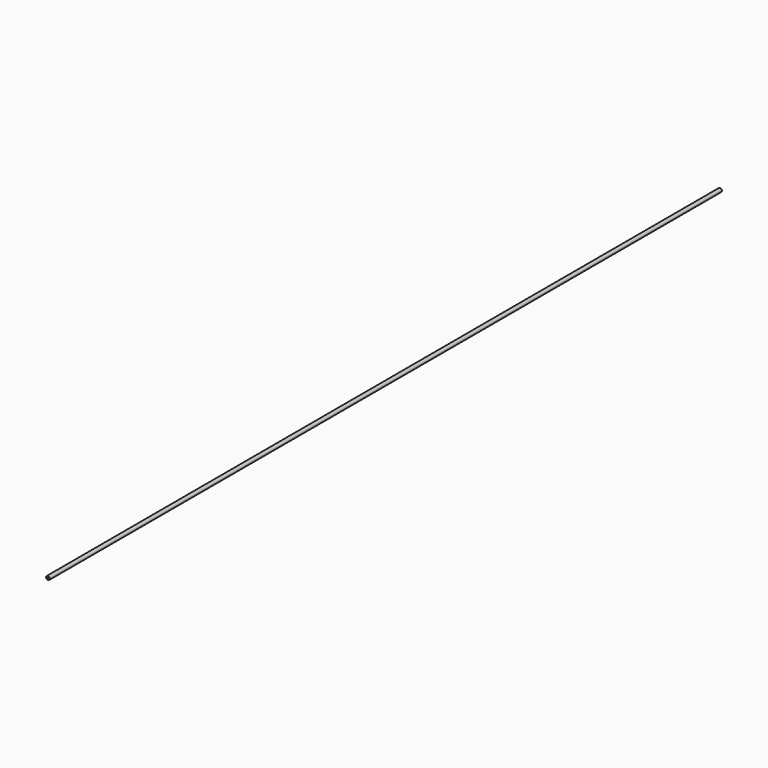
from build123d import *

# Parameters (mm, degrees)
F0_R     = 0.75
F0_R_2   = 0.20193
F1_DEPTH = 340


with BuildPart() as f1:
    # F0 (on Front) → F1 (new body)
    with BuildSketch(Plane.XZ):
        Circle(F0_R)
        with Locations((-0.32673, -0.237383)):
            Circle(F0_R_2, mode=Mode.SUBTRACT)
        with Locations((0.1248, -0.384094)):
            Circle(F0_R_2, mode=Mode.SUBTRACT)
        with Locations((-0.32673, 0.237383)):
            Circle(F0_R_2, mode=Mode.SUBTRACT)
        with Locations((0.40386, 0)):
            Circle(F0_R_2, mode=Mode.SUBTRACT)
        with Locations((0.1248, 0.384094)):
            Circle(F0_R_2, mode=Mode.SUBTRACT)
    extrude(amount=F1_DEPTH)


solid = f1.part
